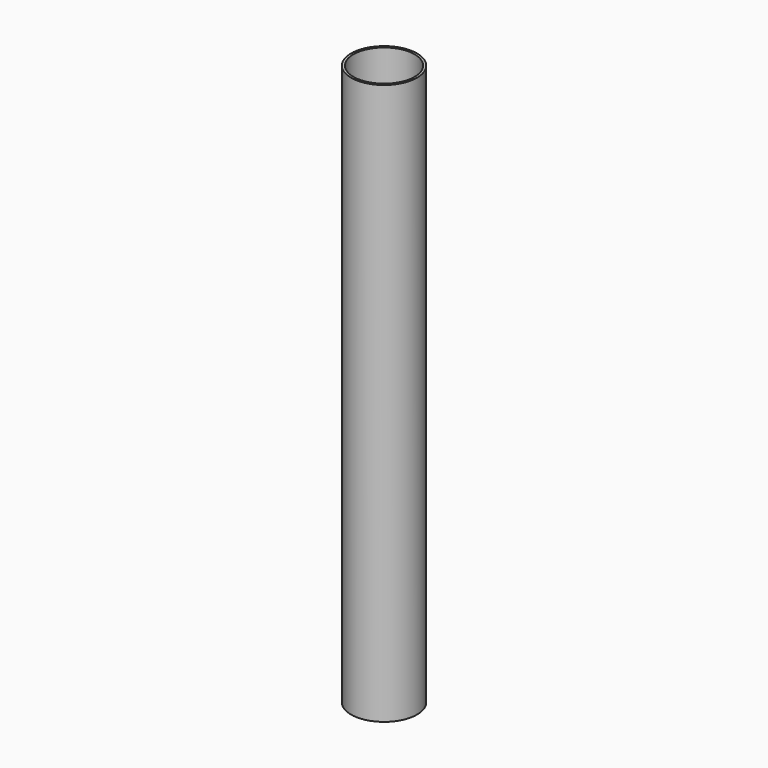
from build123d import *

# Parameters (mm, degrees)
F0_R     = 50.8
F1_DEPTH = 863.6
F3_D     = 94.234


with BuildPart() as f1:
    # F0 (on Top) → F1 (new body)
    with BuildSketch(Plane.XY):
        with Locations((-54.947447, -41.790951)):
            Circle(F0_R)
    extrude(amount=F1_DEPTH)

    # F3 (through all)
    with Locations(Plane(origin=(0, 0, 0), x_dir=(1, 0, 0), z_dir=(0, 0, -1))):
        with Locations((-54.947447, 41.790951)):
            Hole(F3_D / 2)


solid = f1.part
